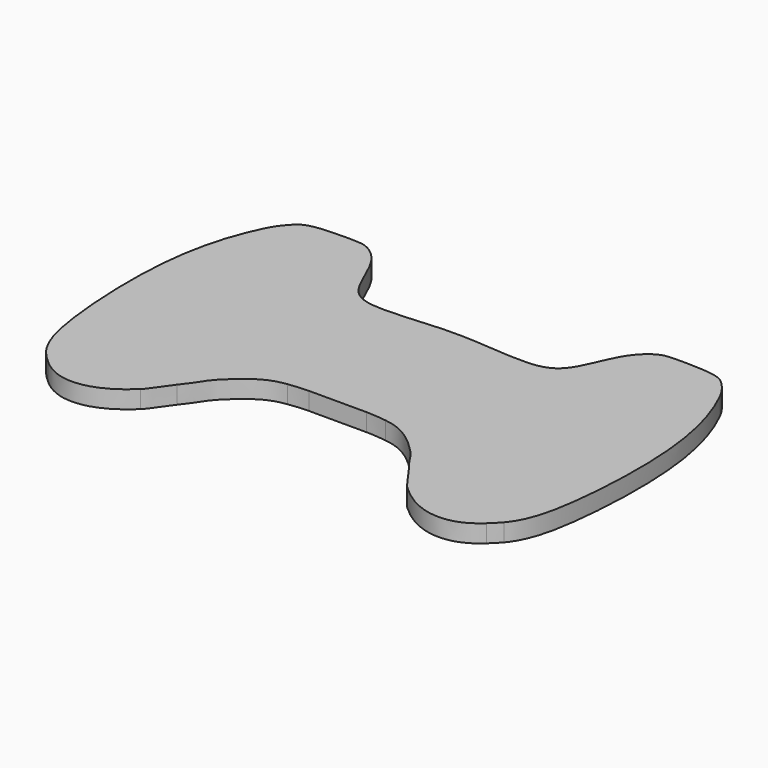
from build123d import *

# Parameters (mm, degrees)
F1_DEPTH = 10


with BuildPart() as f1:
    # F0 (on Top) → F1 (new body)
    with BuildSketch(Plane.XY):
        with BuildLine():
            add(Edge.make_bspline(
                [(0, 39.8503523454), (17.6163757804, 39.8503523454), (49.5979595446, 34.0680180132), (63.1285348078, 48.4465429504), (70.6340535712, 72.4883834643), (82.1009982376, 80.7396271302), (86.5824371576, 81.1408087611)],
                knots=[0, 0, 0, 0, 0.3475948174, 0.5500866608, 0.798373019, 1, 1, 1, 1], degree=3))
            add(Edge.make_bspline(
                [(0, 39.8503523454), (-17.6163757804, 39.8503523454), (-49.5979595446, 34.0680180132), (-63.1285348078, 48.4465429504), (-70.6340535712, 72.4883834643), (-82.1009982376, 80.7396271302), (-86.5824371576, 81.1408087611)],
                knots=[0, 0, 0, 0, 0.3475948174, 0.5500866608, 0.798373019, 1, 1, 1, 1], degree=3))
            add(Edge.make_bspline(
                [(-86.5824371576, 81.1408087611), (-93.9007904504, 81.7959530043), (-98.9296856925, 81.3986186475), (-106.2718778849, 81.1162665486)],
                knots=[0, 0, 0, 0, 19.6894560227, 19.6894560227, 19.6894560227, 19.6894560227], degree=3))
            add(Edge.make_bspline(
                [(-128.4744393327, 66.286289071), (-126.6418217655, 69.9948256304), (-121.6883300812, 76.3099279434), (-116.3076888209, 80.1656075141), (-109.2137869924, 81.0031321891), (-106.2718778849, 81.1162665486)],
                knots=[0, 0, 0, 0, 0.3783672275, 0.6598616754, 1, 1, 1, 1], degree=3))
            add(Edge.make_bspline(
                [(-128.4744393327, 66.286289071), (-135.4318375938, 52.2071018629), (-145.6651953664, 18.0888634859), (-143.2557526153, -51.2139350511), (-136.5926128151, -79.2641593384), (-129.5345964686, -87.7125559019)],
                knots=[0, 0, 0, 0, 0.3298545247, 0.7169240144, 1, 1, 1, 1], degree=3))
            add(Edge.make_bspline(
                [(-123.9448595637, -93.3731000921), (-126.0708795627, -91.4120227226), (-127.7687662085, -89.8262424632), (-129.5345964686, -87.7125559019)],
                knots=[0, 0, 0, 0, 7.9553076116, 7.9553076116, 7.9553076116, 7.9553076116], degree=3))
            add(Edge.make_bspline(
                [(-75.4042738728, -88.5312626545), (-81.1887488218, -94.0527071751), (-93.4123289782, -102.0369497306), (-111.549328833, -102.409720683), (-120.4515285727, -96.5954086095), (-123.9448595637, -93.3731000921)],
                knots=[0, 0, 0, 0, 0.3733377958, 0.6977639991, 1, 1, 1, 1], degree=3))
            add(Edge.make_bspline(
                [(-65.5614852797, -75.2197099381), (-67.4723879489, -77.5098722616), (-73.1172612527, -86.3482445914), (-75.4042738728, -88.5312626545)],
                knots=[0, 0, 0, 0, 16.5552989405, 16.5552989405, 16.5552989405, 16.5552989405], degree=3))
            add(Edge.make_bspline(
                [(-65.5614852797, -75.2197099381), (-60.4343357708, -69.0749675496), (-58.8321924977, -63.8864695892), (-42.7154388513, -48.6643433847), (-33.797969451, -45.165527776), (-27.7572275946, -44.3389004812)],
                knots=[0, 0, 0, 0, 0.3148766937, 0.6723157787, 1, 1, 1, 1], degree=3))
            add(Edge.make_bspline(
                [(-16.2773709744, -43.4229164545), (-20.1161516656, -43.4229164545), (-23.9538918727, -43.8184443528), (-27.7572275946, -44.3389004812)],
                knots=[0, 0, 0, 0, 11.5163420736, 11.5163420736, 11.5163420736, 11.5163420736], degree=3))
            Line((-16.2773709744, -43.4229164545), (0, -43.4229164545))
            Line((0, -43.4229164545), (16.2773709744, -43.4229164545))
            add(Edge.make_bspline(
                [(16.2773709744, -43.4229164545), (20.1161516656, -43.4229164545), (23.9538918727, -43.8184443528), (27.7572275946, -44.3389004812)],
                knots=[0, 0, 0, 0, 11.5163420736, 11.5163420736, 11.5163420736, 11.5163420736], degree=3))
            add(Edge.make_bspline(
                [(65.5614852797, -75.2197099381), (60.4343357708, -69.0749675496), (58.8321924977, -63.8864695892), (42.7154388513, -48.6643433847), (33.797969451, -45.165527776), (27.7572275946, -44.3389004812)],
                knots=[0, 0, 0, 0, 0.3148766937, 0.6723157787, 1, 1, 1, 1], degree=3))
            add(Edge.make_bspline(
                [(65.5614852797, -75.2197099381), (67.4723879489, -77.5098722616), (73.1172612527, -86.3482445914), (75.4042738728, -88.5312626545)],
                knots=[0, 0, 0, 0, 16.5552989405, 16.5552989405, 16.5552989405, 16.5552989405], degree=3))
            add(Edge.make_bspline(
                [(75.4042738728, -88.5312626545), (81.1887488218, -94.0527071751), (93.4123289782, -102.0369497306), (111.549328833, -102.409720683), (120.4515285727, -96.5954086095), (123.9448595637, -93.3731000921)],
                knots=[0, 0, 0, 0, 0.3733377958, 0.6977639991, 1, 1, 1, 1], degree=3))
            add(Edge.make_bspline(
                [(123.9448595637, -93.3731000921), (126.0708795627, -91.4120227226), (127.7687662085, -89.8262424632), (129.5345964686, -87.7125559019)],
                knots=[0, 0, 0, 0, 7.9553076116, 7.9553076116, 7.9553076116, 7.9553076116], degree=3))
            add(Edge.make_bspline(
                [(128.4744393327, 66.286289071), (135.4318375938, 52.2071018629), (145.6651953664, 18.0888634859), (143.2557526153, -51.2139350511), (136.5926128151, -79.2641593384), (129.5345964686, -87.7125559019)],
                knots=[0, 0, 0, 0, 0.3298545247, 0.7169240144, 1, 1, 1, 1], degree=3))
            add(Edge.make_bspline(
                [(128.4744393327, 66.286289071), (126.6418217655, 69.9948256304), (121.6883300812, 76.3099279434), (116.3076888209, 80.1656075141), (109.2137869924, 81.0031321891), (106.2718778849, 81.1162665486)],
                knots=[0, 0, 0, 0, 0.3783672275, 0.6598616754, 1, 1, 1, 1], degree=3))
            add(Edge.make_bspline(
                [(86.5824371576, 81.1408087611), (93.9007904504, 81.7959530043), (98.9296856925, 81.3986186475), (106.2718778849, 81.1162665486)],
                knots=[0, 0, 0, 0, 19.6894560227, 19.6894560227, 19.6894560227, 19.6894560227], degree=3))
        make_face()
    extrude(amount=F1_DEPTH)


solid = f1.part
